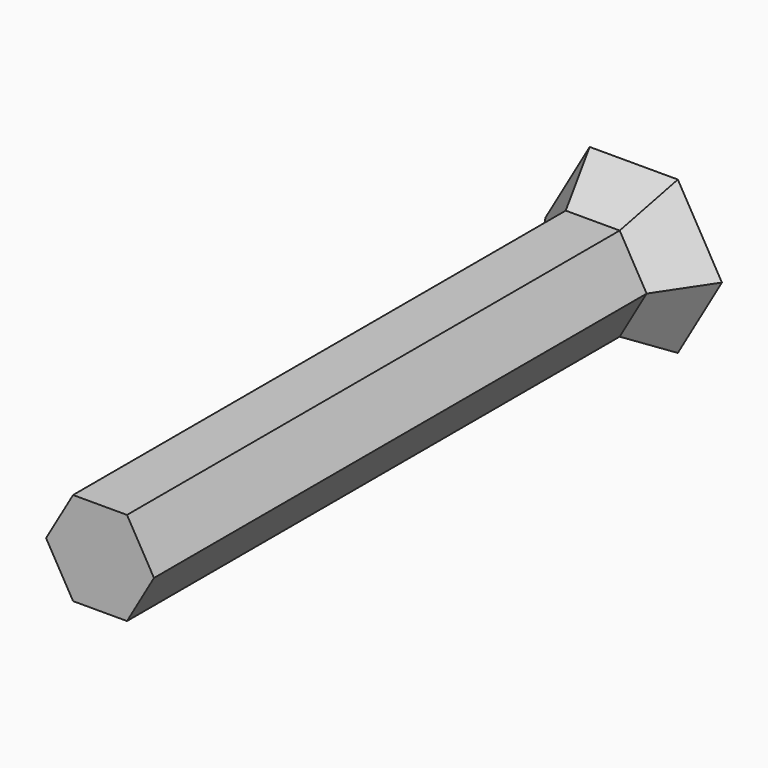
from build123d import *

# Parameters (mm, degrees)
F1_DEPTH = 150
F2_DEPTH = 12.5
F2_TAPER = -30


with BuildPart() as f1:
    # F0 (on Front) → F1 (new body)
    with BuildSketch(Plane.XZ):
        Polygon((6.5699621812, 11.3795083016), (-6.5699621812, 11.3795083016), (-13.1399243624, 0), (-6.5699621812, -11.3795083016), (6.5699621812, -11.3795083016), (13.1399243624, 0), align=None)
    extrude(amount=F1_DEPTH)

    # F0 (on Front) → F2 (join)
    with BuildSketch(Plane.XZ):
        Polygon((6.5699621812, 11.3795083016), (-6.5699621812, 11.3795083016), (-13.1399243624, 0), (-6.5699621812, -11.3795083016), (6.5699621812, -11.3795083016), (13.1399243624, 0), align=None)
    extrude(amount=-F2_DEPTH, taper=F2_TAPER)


solid = f1.part
